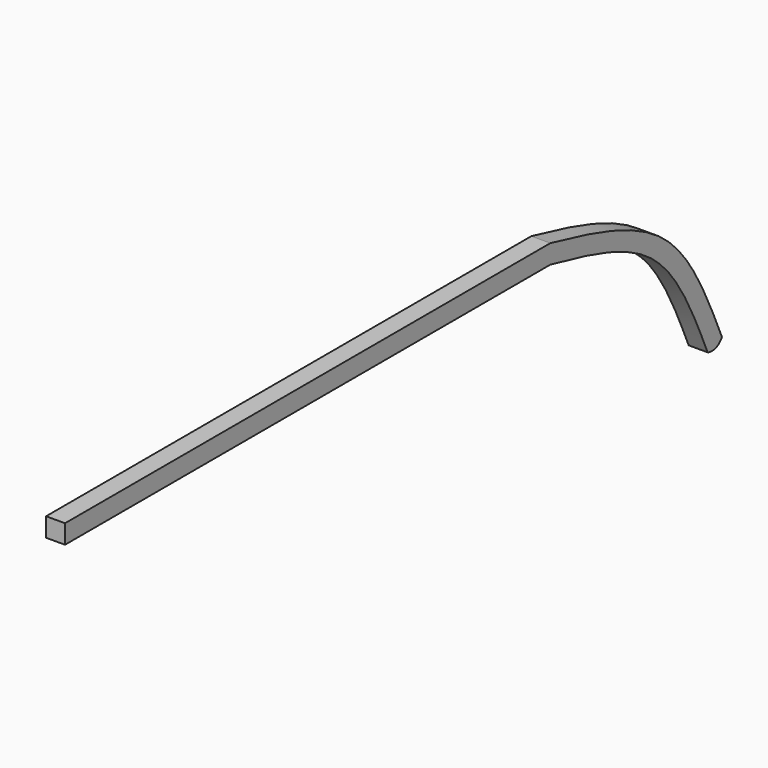
from build123d import *

# Parameters (mm, degrees)
F1_DEPTH = 3.175


with BuildPart() as f1:
    # F0 (on Right) → F1 (new body)
    with BuildSketch(Plane.YZ):
        with BuildLine():
            Line((32.3735841409, 46.4967269772), (-69.2264158591, 46.4967269772))
            Line((-69.2264158591, 46.4967269772), (-69.2264158591, 43.3217269772))
            Line((-69.2264158591, 43.3217269772), (32.3735841409, 43.3217269772))
            add(Edge.make_bspline(
                [(32.3735841409, 43.3217269772), (40.1037151422, 41.5859075553), (56.1522076839, 38.3091894063), (62.3289564765, 23.9064734527), (65.3172269017, 17.0016034988)],
                knots=[0, 0, 0, 0, 0.5065507355, 1, 1, 1, 1], degree=3))
            ThreePointArc((65.3172269017, 17.0016034988), (67.019611396, 16.9563765811), (68.3063974825, 18.0718764727))
            add(Edge.make_bspline(
                [(32.3735841409, 46.4967269772), (41.6027162123, 44.3847681792), (58.6963557591, 40.2405138129), (65.1179171958, 25.4238142536), (68.3063974825, 18.0718764727)],
                knots=[0, 0, 0, 0, 0.5164730128, 1, 1, 1, 1], degree=3))
        make_face()
    extrude(amount=F1_DEPTH)


solid = f1.part
